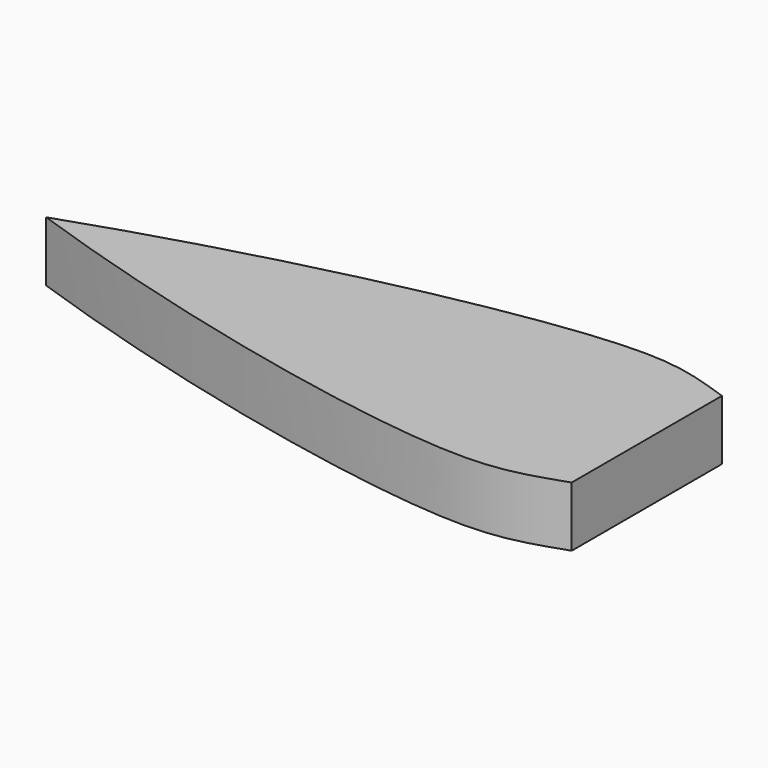
from build123d import *

# Parameters (mm, degrees)
F0_R     = 2.5
F0_R_2   = 3.25
F1_DEPTH = 8
F2_DEPTH = 3.5


with BuildPart() as f1:
    # F0 (on Top) → F1 (new body)
    with BuildSketch(Plane.XY):
        with BuildLine():
            add(Edge.make_bspline(
                [(-39.9032656348, 0), (-15.1489478004, 8.5816033868), (25.5851982599, 17.3948561316), (35.3157049568, 14.1518208849), (40.0967343652, 12.5)],
                knots=[0, 0, 0, 0, 0.6862353486, 1, 1, 1, 1], degree=3))
            add(Edge.make_bspline(
                [(-39.9032656348, 0), (-15.1489478004, -8.5816033868), (25.5851982599, -17.3948561316), (35.3157049568, -14.1518208849), (40.0967343652, -12.5)],
                knots=[0, 0, 0, 0, 0.6862353486, 1, 1, 1, 1], degree=3))
            Line((40.0967343652, -12.5), (40.0967343652, 0))
            Line((40.0967343652, 0), (40.0967343652, 12.5))
        make_face()
        Circle(F0_R, mode=Mode.SUBTRACT)
        with Locations((15.0967343652, 0)):
            Circle(F0_R_2, mode=Mode.SUBTRACT)
        Circle(F0_R)
        with Locations((15.0967343652, 0)):
            Circle(F0_R_2)
    extrude(amount=F1_DEPTH)

    # F0 (on Top) → F2 (cut)
    with BuildSketch(Plane.XY):
        Circle(F0_R)
        with Locations((15.0967343652, 0)):
            Circle(F0_R_2)
    extrude(amount=F2_DEPTH, mode=Mode.SUBTRACT)


solid = f1.part
